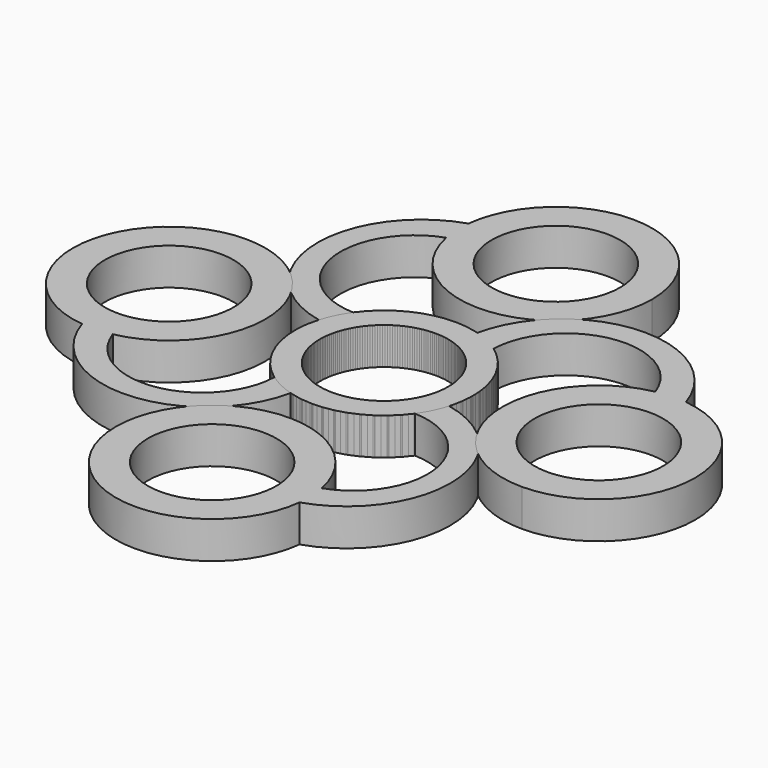
from build123d import *

# Parameters (mm, degrees)
F0_R     = 11.0236
F1_DEPTH = 6.35
F2_COUNT = 4


with BuildPart() as f1:
    # F0 (on Top) → F1 (new body)
    with BuildSketch(Plane.XY):
        with BuildLine():
            ThreePointArc((-16.411148, 38.633977), (-16.493305, 36.087708), (-16.18275, 33.559114))
            ThreePointArc((-16.18275, 33.559114), (1.643608, 20.402016), (16.51, 36.83))
            ThreePointArc((16.51, 36.83), (0.903341, 53.315268), (-16.411148, 38.633977))
        make_face()
        with Locations((0, 36.83)):
            Circle(F0_R, mode=Mode.SUBTRACT)
        with BuildLine():
            ThreePointArc((-14.618772, 4.306866), (-13.696493, 6.683089), (-12.391076, 8.872363))
            ThreePointArc((-12.391076, 8.872363), (-24.556319, 19.638446), (-16.18275, 33.559114))
            ThreePointArc((-16.18275, 33.559114), (-16.493305, 36.087708), (-16.411148, 38.633977))
            ThreePointArc((-16.411148, 38.633977), (-28.723111, 20.780763), (-14.618772, 4.306866))
        make_face()
        with BuildLine():
            ThreePointArc((-14.618772, 4.306866), (-2.175719, -15.083894), (15.24, 0))
            ThreePointArc((15.24, 0), (4.65927, 14.5103), (-12.391076, 8.872363))
            ThreePointArc((-12.391076, 8.872363), (-13.696493, 6.683089), (-14.618772, 4.306866))
        make_face()
        Circle(F0_R, mode=Mode.SUBTRACT)
    extrude(amount=F1_DEPTH)


with BuildPart() as f2_1:
    # F2: instance of F1
    add(f1.part.rotate(Axis((0, 0, 6.35), (0, 0, 1)), 1 * 360 / F2_COUNT))


with BuildPart() as f2_2:
    # F2: instance of F1
    add(f1.part.rotate(Axis((0, 0, 6.35), (0, 0, 1)), 2 * 360 / F2_COUNT))


with BuildPart() as f2_3:
    # F2: instance of F1
    add(f1.part.rotate(Axis((0, 0, 6.35), (0, 0, 1)), 3 * 360 / F2_COUNT))


solid = Compound([f1.part, f2_1.part, f2_2.part, f2_3.part])
